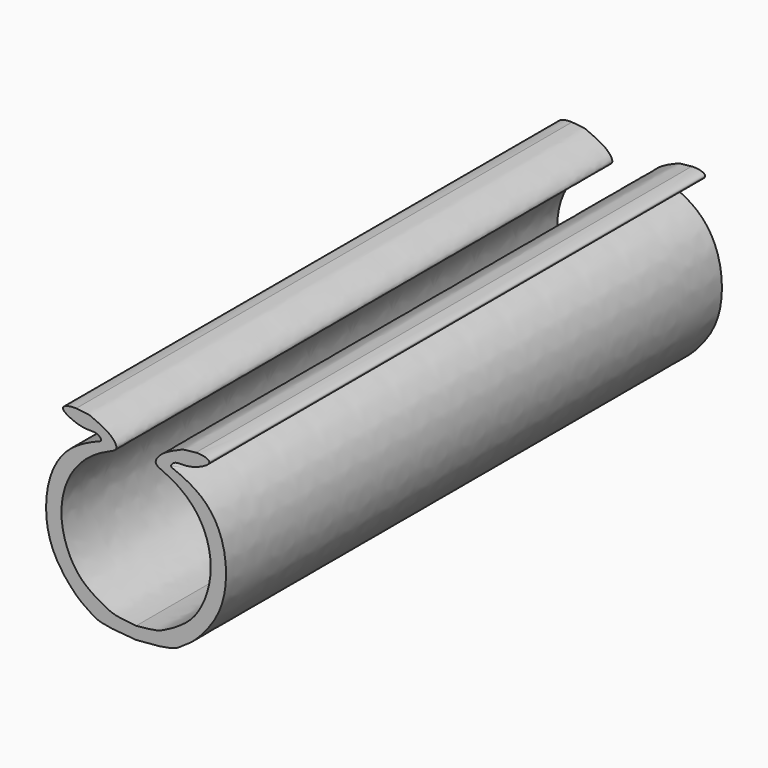
from build123d import *

# Parameters (mm, degrees)
F1_DEPTH = 63.5


with BuildPart() as f1:
    # F0 (on Front) → F1 (new body)
    with BuildSketch(Plane.XZ):
        with BuildLine():
            add(Edge.make_bspline(
                [(-6.1330478638, 9.943889454), (-4.7922289701, 9.7762867567), (-5.0095241814, 9.8940708285), (-3.4741687225, 9.2454902631), (-2.3083718698, 8.5182804722), (-1.7893719276, 7.5240053694), (-3.0944422928, 7.0964810267), (-5.5297561595, 5.6729793597), (-7.487883745, 2.7810494729), (-7.8748466228, -1.0242118405), (-6.5736578826, -4.3144384796), (-5.0138765567, -5.9532202493), (-2.5761016565, -7.3316526289), (-1.9670255967, -7.4782127217), (0, -7.6729371212)],
                knots=[0, 0, 0, 0, 0.0689259333, 0.132296636, 0.202547424, 0.2530762854, 0.3114456731, 0.4076078713, 0.5133779549, 0.6237664243, 0.7290217897, 0.8154562191, 0.9016059341, 1, 1, 1, 1], degree=3))
            add(Edge.make_bspline(
                [(0, -8.9429371212), (-3.800049017, -8.7245511444), (-4.2895839953, -8.1807025795), (-5.8582438642, -7.2908995445), (-8.22601688, -4.6863354327), (-9.3982335021, -1.3146036136), (-9.1212447472, 3.0482207946), (-7.0053368287, 6.3708849979), (-4.1070921822, 7.6225020382), (-3.4334717303, 7.8558024408), (-3.9482841386, 8.457497487), (-4.9566220529, 8.3760792464), (-6.1985093902, 8.5616895053), (-8.1723764045, 9.6173634847), (-6.8134111768, 9.9768701281), (-6.1330478638, 9.943889454)],
                knots=[0, 0, 0, 0, 0.1159733983, 0.1761852529, 0.2743027412, 0.3753275019, 0.4843394905, 0.5896919065, 0.6820197604, 0.7176774723, 0.7563284171, 0.8084239327, 0.8723008479, 0.9364474721, 1, 1, 1, 1], degree=3))
            Line((0, -8.9429371212), (0, -7.6729371212))
        make_face()
        with BuildLine():
            add(Edge.make_bspline(
                [(6.1330478638, 9.943889454), (4.7922289701, 9.7762867567), (5.0095241814, 9.8940708285), (3.4741687225, 9.2454902631), (2.3083718698, 8.5182804722), (1.7893719276, 7.5240053694), (3.0944422928, 7.0964810267), (5.5297561595, 5.6729793597), (7.487883745, 2.7810494729), (7.8748466228, -1.0242118405), (6.5736578826, -4.3144384796), (5.0138765567, -5.9532202493), (2.5761016565, -7.3316526289), (1.9670255967, -7.4782127217), (0, -7.6729371212)],
                knots=[0, 0, 0, 0, 0.0689259333, 0.132296636, 0.202547424, 0.2530762854, 0.3114456731, 0.4076078713, 0.5133779549, 0.6237664243, 0.7290217897, 0.8154562191, 0.9016059341, 1, 1, 1, 1], degree=3))
            Line((0, -7.6729371212), (0, -8.9429371212))
            add(Edge.make_bspline(
                [(0, -8.9429371212), (3.800049017, -8.7245511444), (4.2895839953, -8.1807025795), (5.8582438642, -7.2908995445), (8.22601688, -4.6863354327), (9.3982335021, -1.3146036136), (9.1212447472, 3.0482207946), (7.0053368287, 6.3708849979), (4.1070921822, 7.6225020382), (3.4334717303, 7.8558024408), (3.9482841386, 8.457497487), (4.9566220529, 8.3760792464), (6.1985093902, 8.5616895053), (8.1723764045, 9.6173634847), (6.8134111768, 9.9768701281), (6.1330478638, 9.943889454)],
                knots=[0, 0, 0, 0, 0.1159733983, 0.1761852529, 0.2743027412, 0.3753275019, 0.4843394905, 0.5896919065, 0.6820197604, 0.7176774723, 0.7563284171, 0.8084239327, 0.8723008479, 0.9364474721, 1, 1, 1, 1], degree=3))
        make_face()
    extrude(amount=F1_DEPTH)


solid = f1.part
